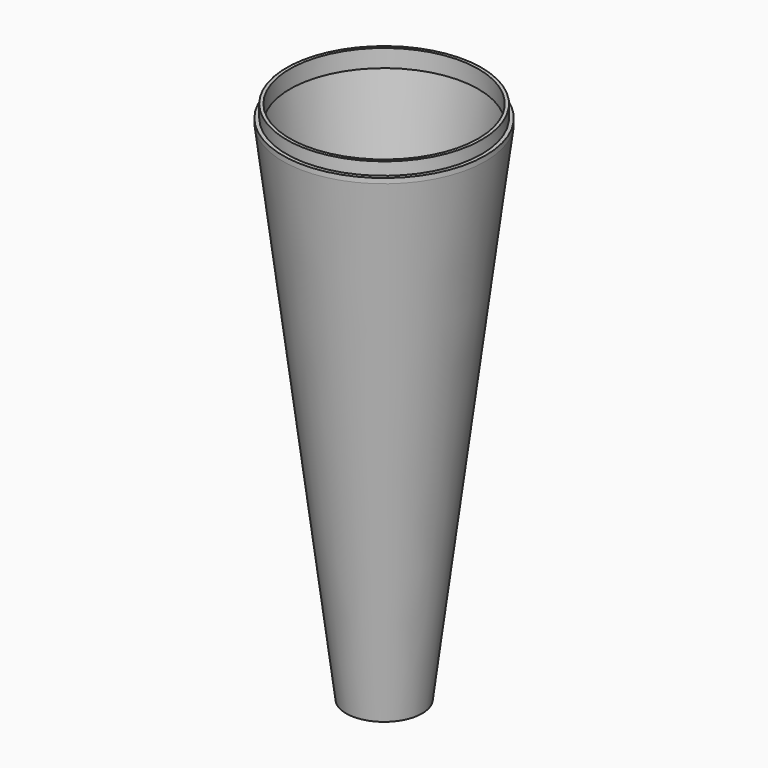
from build123d import *

# Parameters (mm, degrees)
F0_R      = 40
F1_DEPTH  = 2
F2_R      = 38.5
F3_DEPTH  = 5
F7_R      = 15
F4_R      = 40
F9_T      = -2
F10_R     = 37.2180973158
F11_DEPTH = 7.001


with BuildPart() as f1:
    # F0 (on Top) → F1 (new body)
    with BuildSketch(Plane.XY):
        Circle(F0_R)
    extrude(amount=F1_DEPTH)

    # F2 (on face) → F3 (join)
    with BuildSketch(Plane.XY.offset(2)):
        Circle(F2_R)
    extrude(amount=F3_DEPTH)

    # F7 (on plane+point) → F8 section 0
    with BuildSketch(Plane.XY.offset(-200)):
        Circle(F7_R)
    # F4 (on face) → F8 section 1
    with BuildSketch(Plane(origin=(0, 0, 0), x_dir=(1, 0, 0), z_dir=(0, 0, -1))):
        Circle(F4_R)
    loft()

    # F9
    f9_openings = [f1.faces().sort_by_distance(p)[0] for p in [
        (0, 0, -200),
    ]]
    offset(amount=F9_T, openings=f9_openings, kind=Kind.INTERSECTION)

    # F10 (on face) → F11 (cut, through all)
    with BuildSketch(Plane.XY.offset(7)):
        Circle(F10_R)
    extrude(amount=-F11_DEPTH, mode=Mode.SUBTRACT)


solid = f1.part
